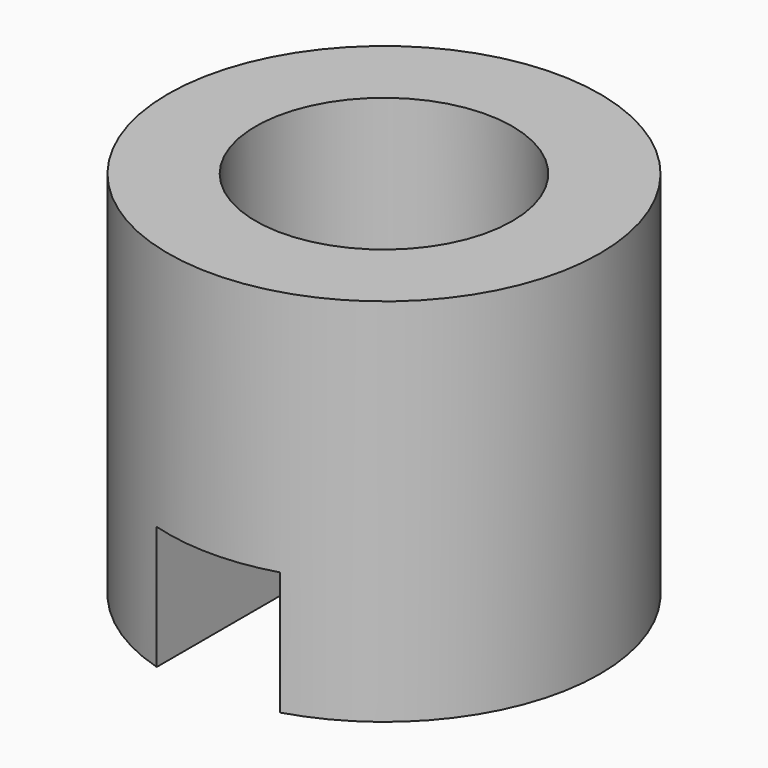
from build123d import *

# Parameters (mm, degrees)
F0_R     = 5.55625
F1_DEPTH = 9.525
F2_W     = 3.175
F2_H     = 11.1125
F3_DEPTH = 3.175
F4_R     = 3.302
F5_DEPTH = 4.7625


with BuildPart() as f1:
    # F0 (on Top) → F1 (new body)
    with BuildSketch(Plane.XY):
        Circle(F0_R)
    extrude(amount=-F1_DEPTH)

    # F2 (on face) → F3 (cut)
    with BuildSketch(Plane(origin=(0, 0, -9.525), x_dir=(1, 0, 0), z_dir=(0, 0, -1))):
        Rectangle(F2_W, F2_H)
    extrude(amount=-F3_DEPTH, mode=Mode.SUBTRACT)

    # F4 (on face) → F5 (cut)
    with BuildSketch(Plane.XY):
        Circle(F4_R)
    extrude(amount=-F5_DEPTH, mode=Mode.SUBTRACT)


solid = f1.part
